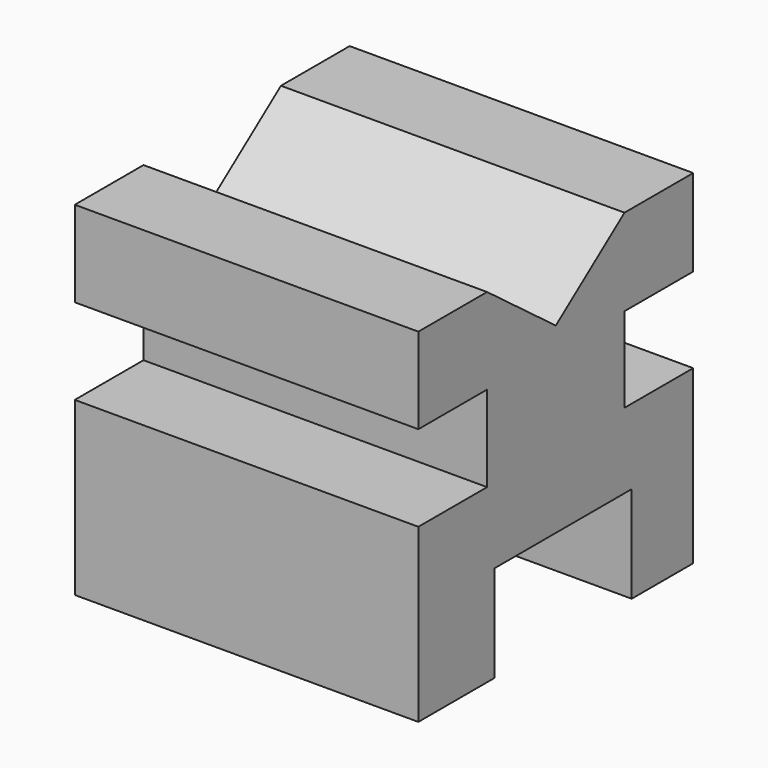
from build123d import *

# Parameters (mm, degrees)
F0_W      = 101.6
F0_H      = 101.6
F1_DEPTH  = 101.6
F2_W      = 101.6
F2_H      = 25.4
F3_DEPTH  = 25.4
F4_W      = 50.8
F4_H      = 28.552413
F5_DEPTH  = 25.4
F5_FACE_W = 50.8
F5_FACE_H = 28.552412
F6_DEPTH  = 180.594
F7_W      = 25.4
F7_H      = 24.58322
F8_DEPTH  = 25.4
F9_W      = 101.6
F9_H      = 25.1435
F10_DEPTH = 25.4
F12_DEPTH = 170.688


with BuildPart() as f1:
    # F0 (on Top) → F1 (new body)
    with BuildSketch(Plane.XY):
        with Locations((-50.8, -50.8)):
            Rectangle(F0_W, F0_H)
    extrude(amount=F1_DEPTH)

    # F2 (on face) → F3 (cut)
    with BuildSketch(Plane.XZ.offset(101.6)):
        with Locations((-50.8, 63.5)):
            Rectangle(F2_W, F2_H)
    extrude(amount=-F3_DEPTH, mode=Mode.SUBTRACT)

    # F4 (on face) → F5 (cut)
    with BuildSketch(Plane.YZ):
        with Locations((-48.133237, 14.276206)):
            Rectangle(F4_W, F4_H)
    extrude(amount=-F5_DEPTH, mode=Mode.SUBTRACT)

    # F5_face (on face) → F6 (cut)
    with BuildSketch(Plane(origin=(-25.4, -48.133237, 14.276206), x_dir=(0, 1, 0), z_dir=(1, 0, 0))):
        Rectangle(F5_FACE_W, F5_FACE_H)
    extrude(amount=-F6_DEPTH, mode=Mode.SUBTRACT)

    # F7 (on face) → F8 (cut)
    with BuildSketch(Plane(origin=(-101.6, 0, 0), x_dir=(0, -1, 0), z_dir=(-1, 0, 0))):
        with Locations((12.7, 64.182259)):
            Rectangle(F7_W, F7_H)
    extrude(amount=F8_DEPTH, mode=Mode.SUBTRACT)

    # F9 (on face) → F10 (cut)
    with BuildSketch(Plane(origin=(0, 0, 0), x_dir=(-1, 0, 0), z_dir=(0, 1, 0))):
        with Locations((50.8, 63.37175)):
            Rectangle(F9_W, F9_H)
    extrude(amount=-F10_DEPTH, mode=Mode.SUBTRACT)

    # F11 (on face) → F12 (cut)
    with BuildSketch(Plane.YZ):
        Polygon((-50.8, 101.6), (-76.2, 101.6), (-50.8, 82.53061), (-25.4, 101.6), align=None)
    extrude(amount=-F12_DEPTH, mode=Mode.SUBTRACT)


solid = f1.part
